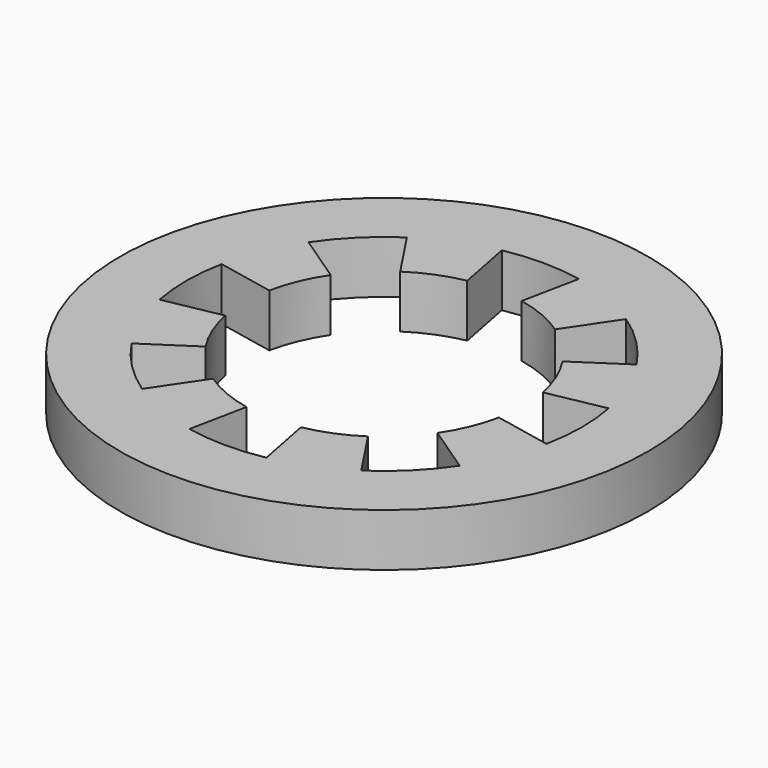
from build123d import *

# Parameters (mm, degrees)
CYLINDER003_R          = 2
CYLINDER003_DEPTH      = 10
CYLINDER002_W          = 3.75
CYLINDER002_H          = 10
CYLINDER002_ANGLE      = 22.5
CUT001_PLACEMENT_ANGLE = -11.5
ARRAY_COUNT            = 8
CYLINDER001_R          = 2.65
CYLINDER001_DEPTH      = 2
CYLINDER_R             = 5
CYLINDER_DEPTH         = 1


with BuildPart() as vaciado_sector:
    # Cylinder003 → Cylinder003 (new body)
    with BuildSketch(Plane.XY):
        Circle(CYLINDER003_R)
    extrude(amount=CYLINDER003_DEPTH)


with BuildPart() as obj1:
    # Cylinder002 → Cylinder002 (revolve)
    with BuildSketch(Plane.XZ):
        with Locations((1.875, 5)):
            Rectangle(CYLINDER002_W, CYLINDER002_H)
    revolve(axis=Axis((0, 0, 0), (0, 0, 1)), revolution_arc=CYLINDER002_ANGLE)

    # Cut001: cut vaciado sector
    add(vaciado_sector.part, mode=Mode.SUBTRACT)


with BuildPart() as obj1_1:
    # Cut001 placement: moved
    add(obj1.part.moved(Location((0, 0, -5))).rotate(Axis((0, 0, -5), (0, 0, 1)), CUT001_PLACEMENT_ANGLE))

    # Array: obj1 ×8 about axis
    array_axis = Axis((0, 0, 0), (0, 0, 1))


with BuildPart() as obj1_2:
    add(obj1_1.part)
    for i in range(1, ARRAY_COUNT):
        add(obj1_1.part.rotate(array_axis, i * 360 / ARRAY_COUNT))


with BuildPart() as obj2:
    # Cylinder001 → Cylinder001 (new body)
    with BuildSketch(Plane.XY.offset(-0.5)):
        Circle(CYLINDER001_R)
    extrude(amount=CYLINDER001_DEPTH)


with BuildPart() as obj3:
    # Cylinder → Cylinder (new body)
    with BuildSketch(Plane.XY):
        Circle(CYLINDER_R)
    extrude(amount=CYLINDER_DEPTH)

    # Cut: cut obj2
    add(obj2.part, mode=Mode.SUBTRACT)

    # Cut002: cut obj1
    add(obj1_2.part, mode=Mode.SUBTRACT)


solid = obj3.part
